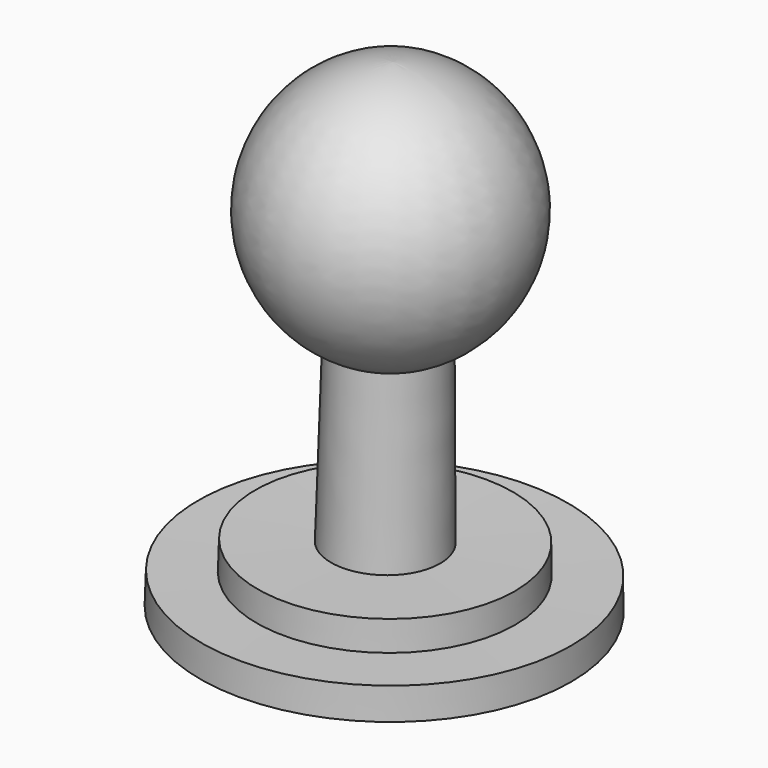
from build123d import *


with BuildPart() as f1:
    # F0 (on Front) → F1 (revolve)
    with BuildSketch(Plane.XZ):
        with BuildLine():
            Line((11.9092298123, 662.0252699599), (0, 0))
            Line((0, 0), (254, 0))
            Line((254, 0), (254, 43.2536252535))
            Line((254, 43.2536252535), (177.8, 43.2536252535))
            Line((177.8, 43.2536252535), (177.8, 83.7463776545))
            Line((177.8, 83.7463776545), (76.2, 83.7463776545))
            Line((76.2, 83.7463776545), (76.2, 323.9808595111))
            ThreePointArc((76.2, 323.9808595111), (174.669158564, 517.843912121), (11.9092298123, 662.0252699599))
        make_face()
    revolve(axis=Axis((5.522995022, 0, 307.0192051071), (-0.0179861765, 0, -0.9998382356)))


solid = f1.part
